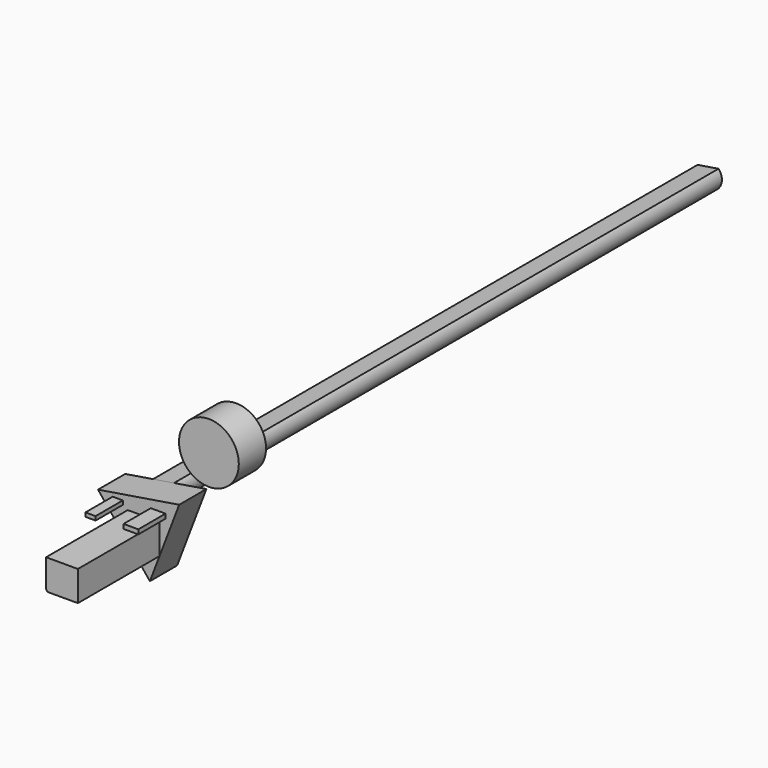
from build123d import *

# Parameters (mm, degrees)
F0_R      = 22.324529
F2_DEPTH  = 25.4
F4_DEPTH  = 508
F6_DEPTH  = 76.2
F7_W      = 7.558547
F7_H      = 2.949678
F8_DEPTH  = 25.4
F9_W      = 11.0225
F9_H      = 3.337407
F10_DEPTH = 25.4


with BuildPart() as f2:
    # F0 (on Front) + F1 (on Front) → F2 (new body)
    with BuildSketch(Plane.XZ):
        with Locations((24.338016, 44.636119)):
            Circle(F0_R)
    with BuildSketch(Plane.XZ):
        Polygon((-19.692236, -53.995373), (2.153098, 3.348651), (-58.430951, -6.404746), align=None)
    extrude(amount=F2_DEPTH)

    # F3 (on face) → F4 (join)
    with BuildSketch(Plane(origin=(0, 0, 0), x_dir=(-1, 0, 0), z_dir=(0, 1, 0))):
        with BuildLine():
            ThreePointArc((21.994989, -0.538938), (25.494237, -15.891751), (38.505543, -7.022732))
            ThreePointArc((38.505543, -7.022732), (38.287013, -4.993759), (37.641445, -3.057854))
            Line((37.641445, -3.057854), (21.994989, -0.538938))
        make_face()
    extrude(amount=F4_DEPTH)

    # F5 (on face) → F6 (join)
    with BuildSketch(Plane.XZ.offset(25.4)):
        Polygon((-12.494178, -12.628307), (-36.225725, -12.628307), (-36.225725, -33.683933), (-35.072671, -35.100463), (-12.494178, -35.100463), align=None)
    extrude(amount=F6_DEPTH)

    # F7 (on face) → F8 (join)
    with BuildSketch(Plane.XZ.offset(25.4)):
        with Locations((-43.692098, -8.94121)):
            Rectangle(F7_W, F7_H)
    extrude(amount=F8_DEPTH)

    # F9 (on face) → F10 (join)
    with BuildSketch(Plane.XZ.offset(25.4)):
        with Locations((-13.529864, -7.447115)):
            Rectangle(F9_W, F9_H)
    extrude(amount=F10_DEPTH)


solid = f2.part
